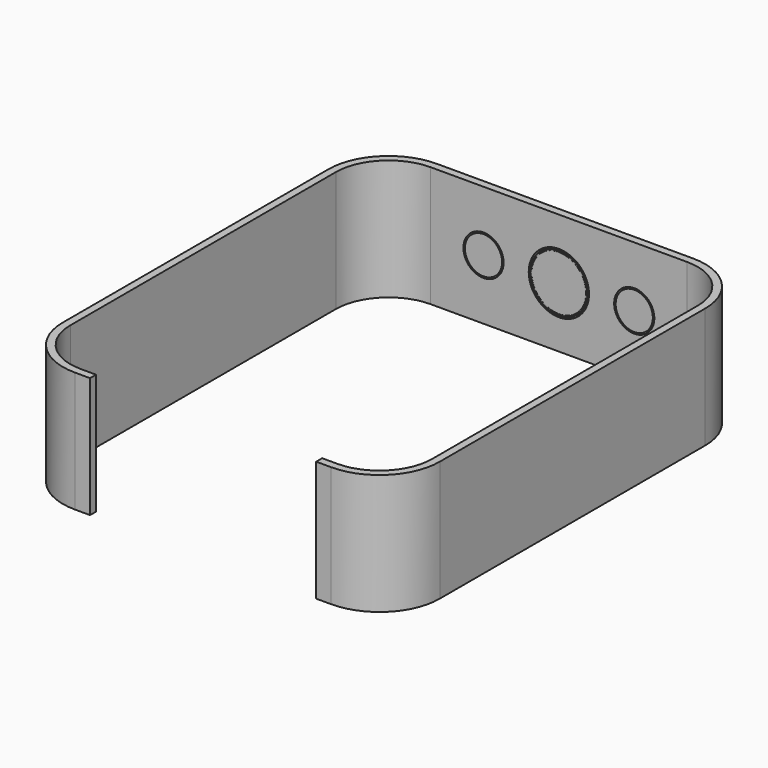
from build123d import *

# Parameters (mm, degrees)
F1_DEPTH      = 101.6
F1_DEPTH_BACK = 101.6
F2_R          = 50.8
F2_R_2        = 33.866667
F3_DEPTH      = 25.4
F4_R          = 48.26
F4_R_2        = 46.337026
F4_R_3        = 31.326667
F5_DEPTH      = 25.4
F5_DEPTH_BACK = 12.7
F6_R          = 46.083026
F7_DEPTH      = 25.4
F7_DEPTH_BACK = 12.7


with BuildPart() as f1:
    # F0 (on Top) → F1 (new body, two sides)
    with BuildSketch(Plane.XY) as f1_sk:
        with BuildLine():
            ThreePointArc((-317.5, -279.4), (-287.742049, -351.242049), (-215.9, -381))
            Line((-215.9, -381), (-190.5, -381))
            Line((-190.5, -381), (-190.5, -368.3))
            Line((-190.5, -368.3), (-215.9, -368.3))
            ThreePointArc((-215.9, -368.3), (-278.761793, -342.261793), (-304.8, -279.4))
            Line((-304.8, -279.4), (-304.8, 279.4))
            ThreePointArc((-304.8, 279.4), (-278.761793, 342.261793), (-215.9, 368.3))
            Line((-215.9, 368.3), (215.9, 368.3))
            ThreePointArc((215.9, 368.3), (278.761793, 342.261793), (304.8, 279.4))
            Line((304.8, 279.4), (304.8, -279.4))
            ThreePointArc((304.8, -279.4), (278.761793, -342.261793), (215.9, -368.3))
            Line((215.9, -368.3), (190.5, -368.3))
            Line((190.5, -368.3), (190.5, -381))
            Line((190.5, -381), (215.9, -381))
            ThreePointArc((215.9, -381), (287.742049, -351.242049), (317.5, -279.4))
            Line((317.5, -279.4), (317.5, 279.4))
            ThreePointArc((317.5, 279.4), (287.742049, 351.242049), (215.9, 381))
            Line((215.9, 381), (-215.9, 381))
            ThreePointArc((-215.9, 381), (-287.742049, 351.242049), (-317.5, 279.4))
            Line((-317.5, 279.4), (-317.5, -279.4))
        make_face()
    extrude(amount=F1_DEPTH)
    extrude(f1_sk.sketch, amount=-F1_DEPTH_BACK)

    # F2 (on face) → F3 (cut)
    with BuildSketch(Plane(origin=(0, 381, 0), x_dir=(-1, 0, 0), z_dir=(0, 1, 0))):
        Circle(F2_R)
        with Locations((-127, 0)):
            Circle(F2_R_2)
        with Locations((127, 0)):
            Circle(F2_R_2)
    extrude(amount=-F3_DEPTH, mode=Mode.SUBTRACT)


with BuildPart() as f5:
    # F4 (on face) → F5 (new body, two sides)
    with BuildSketch(Plane(origin=(0, 381, 0), x_dir=(-1, 0, 0), z_dir=(0, 1, 0))) as f5_sk:
        Circle(F4_R)
        Circle(F4_R_2, mode=Mode.SUBTRACT)
        with Locations((-127, 0)):
            Circle(F4_R_3)
        with Locations((127, 0)):
            Circle(F4_R_3)
    extrude(amount=F5_DEPTH)
    extrude(f5_sk.sketch, amount=-F5_DEPTH_BACK)


with BuildPart() as f7:
    # F6 (on face) → F7 (new body, two sides)
    with BuildSketch(Plane(origin=(0, 381, 0), x_dir=(-1, 0, 0), z_dir=(0, 1, 0))) as f7_sk:
        Circle(F6_R)
    extrude(amount=F7_DEPTH)
    extrude(f7_sk.sketch, amount=-F7_DEPTH_BACK)


solid = Compound([f1.part, f5.part, f7.part])
